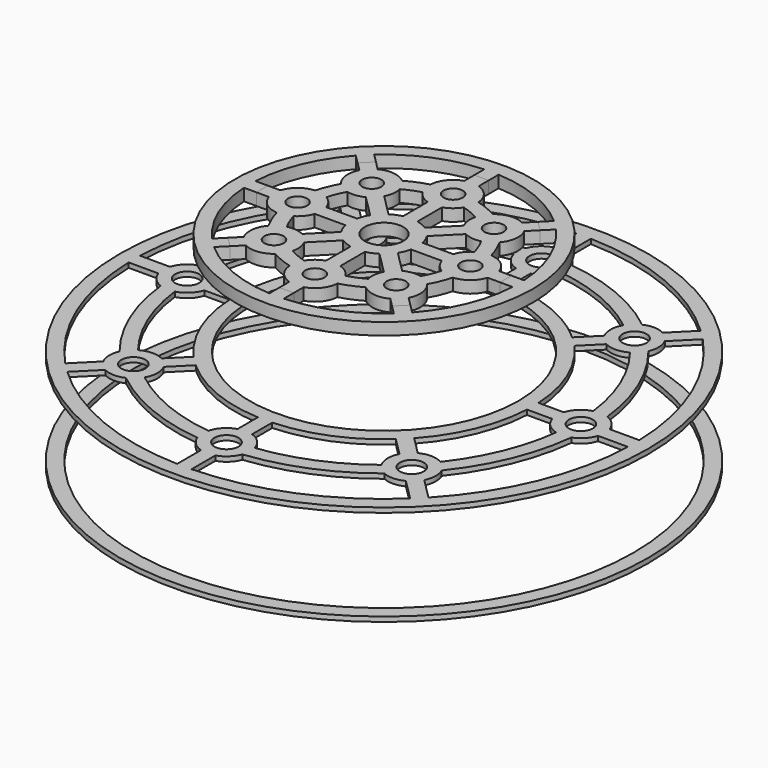
from build123d import *

# Parameters (mm, degrees)
F2_R     = 550
F2_R_2   = 25
F2_R_3   = 280
F3_DEPTH = 10
F4_R     = 20
F4_R_2   = 40
F5_DEPTH = 25
F6_R     = 550
F6_R_2   = 520
F7_DEPTH = 10
F4_R_3   = 310
F8_DEPTH = 25


with BuildPart() as f3:
    # F2 (on Top) → F3 (new body)
    with BuildSketch(Plane.XY):
        Circle(F2_R)
        with Locations((-289.91378, -289.91378)):
            Circle(F2_R_2, mode=Mode.SUBTRACT)
        with BuildLine():
            ThreePointArc((-46.860222, -427.439024), (-34.431925, -446.255242), (-15, -457.69696))
            Line((-15, -457.69696), (-15, -519.783609))
            ThreePointArc((-15, -519.783609), (-198.995385, -480.417357), (-356.935913, -378.149116))
            Line((-356.935913, -378.149116), (-313.034022, -334.247226))
            ThreePointArc((-313.034022, -334.247226), (-291.20306, -339.897155), (-269.109852, -335.380214))
            ThreePointArc((-269.109852, -335.380214), (-164.553876, -397.268199), (-46.860222, -427.439024))
        make_face(mode=Mode.SUBTRACT)
        with BuildLine():
            Line((-15, -309.636884), (-15, -362.30304))
            ThreePointArc((-15, -362.30304), (-36.11046, -375.416266), (-48.300073, -397.073171))
            ThreePointArc((-48.300073, -397.073171), (-153.073373, -369.551813), (-246.619822, -314.926441))
            ThreePointArc((-246.619822, -314.926441), (-239.925436, -290.993338), (-245.580335, -266.793538))
            Line((-245.580335, -266.793538), (-208.339739, -229.552942))
            ThreePointArc((-208.339739, -229.552942), (-118.631864, -286.402655), (-15, -309.636884))
        make_face(mode=Mode.SUBTRACT)
        with BuildLine():
            Line((-519.783609, -15), (-457.69696, -15))
            ThreePointArc((-457.69696, -15), (-446.255242, -34.431925), (-427.439024, -46.860222))
            ThreePointArc((-427.439024, -46.860222), (-397.268199, -164.553876), (-335.380214, -269.109852))
            ThreePointArc((-335.380214, -269.109852), (-339.897155, -291.20306), (-334.247226, -313.034022))
            Line((-334.247226, -313.034022), (-378.149116, -356.935913))
            ThreePointArc((-378.149116, -356.935913), (-480.417357, -198.995385), (-519.783609, -15))
        make_face(mode=Mode.SUBTRACT)
        with BuildLine():
            ThreePointArc((-397.073171, -48.300073), (-375.416266, -36.11046), (-362.30304, -15))
            Line((-362.30304, -15), (-309.636884, -15))
            ThreePointArc((-309.636884, -15), (-286.402655, -118.631864), (-229.552942, -208.339739))
            Line((-229.552942, -208.339739), (-266.793538, -245.580335))
            ThreePointArc((-266.793538, -245.580335), (-290.993338, -239.925436), (-314.926441, -246.619822))
            ThreePointArc((-314.926441, -246.619822), (-369.551813, -153.073373), (-397.073171, -48.300073))
        make_face(mode=Mode.SUBTRACT)
        with BuildLine():
            ThreePointArc((356.935913, -378.149116), (198.995385, -480.417357), (15, -519.783609))
            Line((15, -519.783609), (15, -457.69696))
            ThreePointArc((15, -457.69696), (34.431925, -446.255242), (46.860222, -427.439024))
            ThreePointArc((46.860222, -427.439024), (164.553876, -397.268199), (269.109852, -335.380214))
            ThreePointArc((269.109852, -335.380214), (291.20306, -339.897155), (313.034022, -334.247226))
            Line((313.034022, -334.247226), (356.935913, -378.149116))
        make_face(mode=Mode.SUBTRACT)
        with Locations((0, -410)):
            Circle(F2_R_2, mode=Mode.SUBTRACT)
        with BuildLine():
            ThreePointArc((246.619822, -314.926441), (153.073373, -369.551813), (48.300073, -397.073171))
            ThreePointArc((48.300073, -397.073171), (36.11046, -375.416266), (15, -362.30304))
            Line((15, -362.30304), (15, -309.636884))
            ThreePointArc((15, -309.636884), (118.631864, -286.402655), (208.339739, -229.552942))
            Line((208.339739, -229.552942), (245.580335, -266.793538))
            ThreePointArc((245.580335, -266.793538), (239.925436, -290.993338), (246.619822, -314.926441))
        make_face(mode=Mode.SUBTRACT)
        with Locations((289.91378, -289.91378)):
            Circle(F2_R_2, mode=Mode.SUBTRACT)
        with BuildLine():
            Line((378.149116, -356.935913), (334.247226, -313.034022))
            ThreePointArc((334.247226, -313.034022), (339.897155, -291.20306), (335.380214, -269.109852))
            ThreePointArc((335.380214, -269.109852), (397.268199, -164.553876), (427.439024, -46.860222))
            ThreePointArc((427.439024, -46.860222), (446.255242, -34.431925), (457.69696, -15))
            Line((457.69696, -15), (519.783609, -15))
            ThreePointArc((519.783609, -15), (480.417357, -198.995385), (378.149116, -356.935913))
        make_face(mode=Mode.SUBTRACT)
        with BuildLine():
            ThreePointArc((314.926441, -246.619822), (290.993338, -239.925436), (266.793538, -245.580335))
            Line((266.793538, -245.580335), (229.552942, -208.339739))
            ThreePointArc((229.552942, -208.339739), (286.402655, -118.631864), (309.636884, -15))
            Line((309.636884, -15), (362.30304, -15))
            ThreePointArc((362.30304, -15), (375.416266, -36.11046), (397.073171, -48.300073))
            ThreePointArc((397.073171, -48.300073), (369.551813, -153.073373), (314.926441, -246.619822))
        make_face(mode=Mode.SUBTRACT)
        with Locations((-410, 0)):
            Circle(F2_R_2, mode=Mode.SUBTRACT)
        with BuildLine():
            ThreePointArc((-314.926441, 246.619822), (-290.993338, 239.925436), (-266.793538, 245.580335))
            Line((-266.793538, 245.580335), (-229.552942, 208.339739))
            ThreePointArc((-229.552942, 208.339739), (-286.402655, 118.631864), (-309.636884, 15))
            Line((-309.636884, 15), (-362.30304, 15))
            ThreePointArc((-362.30304, 15), (-375.416266, 36.11046), (-397.073171, 48.300073))
            ThreePointArc((-397.073171, 48.300073), (-369.551813, 153.073373), (-314.926441, 246.619822))
        make_face(mode=Mode.SUBTRACT)
        with BuildLine():
            Line((-378.149116, 356.935913), (-334.247226, 313.034022))
            ThreePointArc((-334.247226, 313.034022), (-339.897155, 291.20306), (-335.380214, 269.109852))
            ThreePointArc((-335.380214, 269.109852), (-397.268199, 164.553876), (-427.439024, 46.860222))
            ThreePointArc((-427.439024, 46.860222), (-446.255242, 34.431925), (-457.69696, 15))
            Line((-457.69696, 15), (-519.783609, 15))
            ThreePointArc((-519.783609, 15), (-480.417357, 198.995385), (-378.149116, 356.935913))
        make_face(mode=Mode.SUBTRACT)
        with Locations((-289.91378, 289.91378)):
            Circle(F2_R_2, mode=Mode.SUBTRACT)
        with BuildLine():
            ThreePointArc((-48.300073, 397.073171), (-36.11046, 375.416266), (-15, 362.30304))
            Line((-15, 362.30304), (-15, 309.636884))
            ThreePointArc((-15, 309.636884), (-118.631864, 286.402655), (-208.339739, 229.552942))
            Line((-208.339739, 229.552942), (-245.580335, 266.793538))
            ThreePointArc((-245.580335, 266.793538), (-239.925436, 290.993338), (-246.619822, 314.926441))
            ThreePointArc((-246.619822, 314.926441), (-153.073373, 369.551813), (-48.300073, 397.073171))
        make_face(mode=Mode.SUBTRACT)
        with BuildLine():
            Line((-15, 519.783609), (-15, 457.69696))
            ThreePointArc((-15, 457.69696), (-34.431925, 446.255242), (-46.860222, 427.439024))
            ThreePointArc((-46.860222, 427.439024), (-164.553876, 397.268199), (-269.109852, 335.380214))
            ThreePointArc((-269.109852, 335.380214), (-291.20306, 339.897155), (-313.034022, 334.247226))
            Line((-313.034022, 334.247226), (-356.935913, 378.149116))
            ThreePointArc((-356.935913, 378.149116), (-198.995385, 480.417357), (-15, 519.783609))
        make_face(mode=Mode.SUBTRACT)
        Circle(F2_R_3, mode=Mode.SUBTRACT)
        with Locations((410, 0)):
            Circle(F2_R_2, mode=Mode.SUBTRACT)
        with BuildLine():
            ThreePointArc((397.073171, 48.300073), (375.416266, 36.11046), (362.30304, 15))
            Line((362.30304, 15), (309.636884, 15))
            ThreePointArc((309.636884, 15), (286.402655, 118.631864), (229.552942, 208.339739))
            Line((229.552942, 208.339739), (266.793538, 245.580335))
            ThreePointArc((266.793538, 245.580335), (290.993338, 239.925436), (314.926441, 246.619822))
            ThreePointArc((314.926441, 246.619822), (369.551813, 153.073373), (397.073171, 48.300073))
        make_face(mode=Mode.SUBTRACT)
        with BuildLine():
            Line((519.783609, 15), (457.69696, 15))
            ThreePointArc((457.69696, 15), (446.255242, 34.431925), (427.439024, 46.860222))
            ThreePointArc((427.439024, 46.860222), (397.268199, 164.553876), (335.380214, 269.109852))
            ThreePointArc((335.380214, 269.109852), (339.897155, 291.20306), (334.247226, 313.034022))
            Line((334.247226, 313.034022), (378.149116, 356.935913))
            ThreePointArc((378.149116, 356.935913), (480.417357, 198.995385), (519.783609, 15))
        make_face(mode=Mode.SUBTRACT)
        with BuildLine():
            ThreePointArc((246.619822, 314.926441), (239.925436, 290.993338), (245.580335, 266.793538))
            Line((245.580335, 266.793538), (208.339739, 229.552942))
            ThreePointArc((208.339739, 229.552942), (118.631864, 286.402655), (15, 309.636884))
            Line((15, 309.636884), (15, 362.30304))
            ThreePointArc((15, 362.30304), (36.11046, 375.416266), (48.300073, 397.073171))
            ThreePointArc((48.300073, 397.073171), (153.073373, 369.551813), (246.619822, 314.926441))
        make_face(mode=Mode.SUBTRACT)
        with Locations((0, 410)):
            Circle(F2_R_2, mode=Mode.SUBTRACT)
        with BuildLine():
            Line((356.935913, 378.149116), (313.034022, 334.247226))
            ThreePointArc((313.034022, 334.247226), (291.20306, 339.897155), (269.109852, 335.380214))
            ThreePointArc((269.109852, 335.380214), (164.553876, 397.268199), (46.860222, 427.439024))
            ThreePointArc((46.860222, 427.439024), (34.431925, 446.255242), (15, 457.69696))
            Line((15, 457.69696), (15, 519.783609))
            ThreePointArc((15, 519.783609), (198.995385, 480.417357), (356.935913, 378.149116))
        make_face(mode=Mode.SUBTRACT)
        with Locations((289.91378, 289.91378)):
            Circle(F2_R_2, mode=Mode.SUBTRACT)
    extrude(amount=F3_DEPTH)


with BuildPart() as f5:
    # F4 (on offset) → F5 (new body)
    with BuildSketch(Plane.XY.offset(200)):
        with BuildLine():
            ThreePointArc((15, -227.69696), (39.3023, -210.9084), (49.888765, -183.333333))
            ThreePointArc((49.888765, -183.333333), (72.709852, -175.537111), (94.359559, -164.912927))
            ThreePointArc((94.359559, -164.912927), (121.343837, -176.925683), (150.399463, -171.612666))
            Line((150.399463, -171.612666), (168.749225, -189.962429))
            Line((168.749225, -189.962429), (189.962429, -168.749225))
            Line((189.962429, -168.749225), (171.612666, -150.399463))
            ThreePointArc((171.612666, -150.399463), (176.925683, -121.343837), (164.912927, -94.359559))
            ThreePointArc((164.912927, -94.359559), (175.537111, -72.709852), (183.333333, -49.888765))
            ThreePointArc((183.333333, -49.888765), (210.9084, -39.3023), (227.69696, -15))
            Line((227.69696, -15), (253.647443, -15))
            Line((253.647443, -15), (253.647443, 15))
            Line((253.647443, 15), (227.69696, 15))
            ThreePointArc((227.69696, 15), (210.9084, 39.3023), (183.333333, 49.888765))
            ThreePointArc((183.333333, 49.888765), (175.537111, 72.709852), (164.912927, 94.359559))
            ThreePointArc((164.912927, 94.359559), (176.925683, 121.343837), (171.612666, 150.399463))
            Line((171.612666, 150.399463), (189.962429, 168.749225))
            Line((189.962429, 168.749225), (168.749225, 189.962429))
            Line((168.749225, 189.962429), (150.399463, 171.612666))
            ThreePointArc((150.399463, 171.612666), (121.343837, 176.925683), (94.359559, 164.912927))
            ThreePointArc((94.359559, 164.912927), (72.709852, 175.537111), (49.888765, 183.333333))
            ThreePointArc((49.888765, 183.333333), (39.3023, 210.9084), (15, 227.69696))
            Line((15, 227.69696), (15, 253.647443))
            Line((15, 253.647443), (-15, 253.647443))
            Line((-15, 253.647443), (-15, 227.69696))
            ThreePointArc((-15, 227.69696), (-39.3023, 210.9084), (-49.888765, 183.333333))
            ThreePointArc((-49.888765, 183.333333), (-72.709852, 175.537111), (-94.359559, 164.912927))
            ThreePointArc((-94.359559, 164.912927), (-121.343837, 176.925683), (-150.399463, 171.612666))
            Line((-150.399463, 171.612666), (-168.749225, 189.962429))
            Line((-168.749225, 189.962429), (-189.962429, 168.749225))
            Line((-189.962429, 168.749225), (-171.612666, 150.399463))
            ThreePointArc((-171.612666, 150.399463), (-176.925683, 121.343837), (-164.912927, 94.359559))
            ThreePointArc((-164.912927, 94.359559), (-175.537111, 72.709852), (-183.333333, 49.888765))
            ThreePointArc((-183.333333, 49.888765), (-210.9084, 39.3023), (-227.69696, 15))
            Line((-227.69696, 15), (-253.647443, 15))
            Line((-253.647443, 15), (-253.647443, -15))
            Line((-253.647443, -15), (-227.69696, -15))
            ThreePointArc((-227.69696, -15), (-210.9084, -39.3023), (-183.333333, -49.888765))
            ThreePointArc((-183.333333, -49.888765), (-175.537111, -72.709852), (-164.912927, -94.359559))
            ThreePointArc((-164.912927, -94.359559), (-176.925683, -121.343837), (-171.612666, -150.399463))
            Line((-171.612666, -150.399463), (-189.962429, -168.749225))
            Line((-189.962429, -168.749225), (-168.749225, -189.962429))
            Line((-168.749225, -189.962429), (-150.399463, -171.612666))
            ThreePointArc((-150.399463, -171.612666), (-121.343837, -176.925683), (-94.359559, -164.912927))
            ThreePointArc((-94.359559, -164.912927), (-72.709852, -175.537111), (-49.888765, -183.333333))
            ThreePointArc((-49.888765, -183.333333), (-39.3023, -210.9084), (-15, -227.69696))
            Line((-15, -227.69696), (-15, -253.647443))
            Line((-15, -253.647443), (15, -253.647443))
            Line((15, -253.647443), (15, -227.69696))
        make_face()
        with Locations((-127.279221, -127.279221)):
            Circle(F4_R, mode=Mode.SUBTRACT)
        with BuildLine():
            Line((-15, -68.373972), (-15, -132.30304))
            ThreePointArc((-15, -132.30304), (-30.90282, -140.693312), (-42.809332, -154.166667))
            ThreePointArc((-42.809332, -154.166667), (-61.229349, -147.820725), (-78.741527, -139.283064))
            ThreePointArc((-78.741527, -139.283064), (-77.633602, -121.336788), (-82.945775, -104.158978))
            Line((-82.945775, -104.158978), (-37.741097, -58.954301))
            ThreePointArc((-37.741097, -58.954301), (-26.78784, -64.671567), (-15, -68.373972))
        make_face(mode=Mode.SUBTRACT)
        with BuildLine():
            Line((-132.30304, -15), (-68.373972, -15))
            ThreePointArc((-68.373972, -15), (-64.671567, -26.78784), (-58.954301, -37.741097))
            Line((-58.954301, -37.741097), (-104.158978, -82.945775))
            ThreePointArc((-104.158978, -82.945775), (-121.336788, -77.633602), (-139.283064, -78.741527))
            ThreePointArc((-139.283064, -78.741527), (-147.820725, -61.229349), (-154.166667, -42.809332))
            ThreePointArc((-154.166667, -42.809332), (-140.693312, -30.90282), (-132.30304, -15))
        make_face(mode=Mode.SUBTRACT)
        with Locations((0, -180)):
            Circle(F4_R, mode=Mode.SUBTRACT)
        with BuildLine():
            ThreePointArc((78.741527, -139.283064), (61.229349, -147.820725), (42.809332, -154.166667))
            ThreePointArc((42.809332, -154.166667), (30.90282, -140.693312), (15, -132.30304))
            Line((15, -132.30304), (15, -68.373972))
            ThreePointArc((15, -68.373972), (26.78784, -64.671567), (37.741097, -58.954301))
            Line((37.741097, -58.954301), (82.945775, -104.158978))
            ThreePointArc((82.945775, -104.158978), (77.633602, -121.336788), (78.741527, -139.283064))
        make_face(mode=Mode.SUBTRACT)
        with Locations((127.279221, -127.279221)):
            Circle(F4_R, mode=Mode.SUBTRACT)
        with BuildLine():
            Line((104.158978, -82.945775), (58.954301, -37.741097))
            ThreePointArc((58.954301, -37.741097), (64.671567, -26.78784), (68.373972, -15))
            Line((68.373972, -15), (132.30304, -15))
            ThreePointArc((132.30304, -15), (140.693312, -30.90282), (154.166667, -42.809332))
            ThreePointArc((154.166667, -42.809332), (147.820725, -61.229349), (139.283064, -78.741527))
            ThreePointArc((139.283064, -78.741527), (121.336788, -77.633602), (104.158978, -82.945775))
        make_face(mode=Mode.SUBTRACT)
        with Locations((-180, 0)):
            Circle(F4_R, mode=Mode.SUBTRACT)
        with BuildLine():
            Line((-104.158978, 82.945775), (-58.954301, 37.741097))
            ThreePointArc((-58.954301, 37.741097), (-64.671567, 26.78784), (-68.373972, 15))
            Line((-68.373972, 15), (-132.30304, 15))
            ThreePointArc((-132.30304, 15), (-140.693312, 30.90282), (-154.166667, 42.809332))
            ThreePointArc((-154.166667, 42.809332), (-147.820725, 61.229349), (-139.283064, 78.741527))
            ThreePointArc((-139.283064, 78.741527), (-121.336788, 77.633602), (-104.158978, 82.945775))
        make_face(mode=Mode.SUBTRACT)
        with Locations((-127.279221, 127.279221)):
            Circle(F4_R, mode=Mode.SUBTRACT)
        with BuildLine():
            Line((-15, 132.30304), (-15, 68.373972))
            ThreePointArc((-15, 68.373972), (-26.78784, 64.671567), (-37.741097, 58.954301))
            Line((-37.741097, 58.954301), (-82.945775, 104.158978))
            ThreePointArc((-82.945775, 104.158978), (-77.633602, 121.336788), (-78.741527, 139.283064))
            ThreePointArc((-78.741527, 139.283064), (-61.229349, 147.820725), (-42.809332, 154.166667))
            ThreePointArc((-42.809332, 154.166667), (-30.90282, 140.693312), (-15, 132.30304))
        make_face(mode=Mode.SUBTRACT)
        Circle(F4_R_2, mode=Mode.SUBTRACT)
        with BuildLine():
            Line((132.30304, 15), (68.373972, 15))
            ThreePointArc((68.373972, 15), (64.671567, 26.78784), (58.954301, 37.741097))
            Line((58.954301, 37.741097), (104.158978, 82.945775))
            ThreePointArc((104.158978, 82.945775), (121.336788, 77.633602), (139.283064, 78.741527))
            ThreePointArc((139.283064, 78.741527), (147.820725, 61.229349), (154.166667, 42.809332))
            ThreePointArc((154.166667, 42.809332), (140.693312, 30.90282), (132.30304, 15))
        make_face(mode=Mode.SUBTRACT)
        with BuildLine():
            Line((82.945775, 104.158978), (37.741097, 58.954301))
            ThreePointArc((37.741097, 58.954301), (26.78784, 64.671567), (15, 68.373972))
            Line((15, 68.373972), (15, 132.30304))
            ThreePointArc((15, 132.30304), (30.90282, 140.693312), (42.809332, 154.166667))
            ThreePointArc((42.809332, 154.166667), (61.229349, 147.820725), (78.741527, 139.283064))
            ThreePointArc((78.741527, 139.283064), (77.633602, 121.336788), (82.945775, 104.158978))
        make_face(mode=Mode.SUBTRACT)
        with Locations((127.279221, 127.279221)):
            Circle(F4_R, mode=Mode.SUBTRACT)
        with Locations((180, 0)):
            Circle(F4_R, mode=Mode.SUBTRACT)
        with Locations((0, 180)):
            Circle(F4_R, mode=Mode.SUBTRACT)
    extrude(amount=F5_DEPTH)


with BuildPart() as f7:
    # F6 (on offset) → F7 (new body)
    with BuildSketch(Plane.XY.offset(-200)):
        Circle(F6_R)
        Circle(F6_R_2, mode=Mode.SUBTRACT)
    extrude(amount=F7_DEPTH)


with BuildPart() as f8:
    # F4 (on offset) → F8 (new body)
    with BuildSketch(Plane.XY.offset(200)):
        Circle(F4_R_3)
        with BuildLine():
            Line((15, -279.597926), (15, -253.647443))
            Line((15, -253.647443), (-15, -253.647443))
            Line((-15, -253.647443), (-15, -279.597926))
            ThreePointArc((-15, -279.597926), (-107.151361, -258.686269), (-187.098987, -208.312191))
            Line((-187.098987, -208.312191), (-168.749225, -189.962429))
            Line((-168.749225, -189.962429), (-189.962429, -168.749225))
            Line((-189.962429, -168.749225), (-208.312191, -187.098987))
            ThreePointArc((-208.312191, -187.098987), (-258.686269, -107.151361), (-279.597926, -15))
            Line((-279.597926, -15), (-253.647443, -15))
            Line((-253.647443, -15), (-253.647443, 15))
            Line((-253.647443, 15), (-279.597926, 15))
            ThreePointArc((-279.597926, 15), (-258.686269, 107.151361), (-208.312191, 187.098987))
            Line((-208.312191, 187.098987), (-189.962429, 168.749225))
            Line((-189.962429, 168.749225), (-168.749225, 189.962429))
            Line((-168.749225, 189.962429), (-187.098987, 208.312191))
            ThreePointArc((-187.098987, 208.312191), (-107.151361, 258.686269), (-15, 279.597926))
            Line((-15, 279.597926), (-15, 253.647443))
            Line((-15, 253.647443), (15, 253.647443))
            Line((15, 253.647443), (15, 279.597926))
            ThreePointArc((15, 279.597926), (107.151361, 258.686269), (187.098987, 208.312191))
            Line((187.098987, 208.312191), (168.749225, 189.962429))
            Line((168.749225, 189.962429), (189.962429, 168.749225))
            Line((189.962429, 168.749225), (208.312191, 187.098987))
            ThreePointArc((208.312191, 187.098987), (258.686269, 107.151361), (279.597926, 15))
            Line((279.597926, 15), (253.647443, 15))
            Line((253.647443, 15), (253.647443, -15))
            Line((253.647443, -15), (279.597926, -15))
            ThreePointArc((279.597926, -15), (258.686269, -107.151361), (208.312191, -187.098987))
            Line((208.312191, -187.098987), (189.962429, -168.749225))
            Line((189.962429, -168.749225), (168.749225, -189.962429))
            Line((168.749225, -189.962429), (187.098987, -208.312191))
            ThreePointArc((187.098987, -208.312191), (107.151361, -258.686269), (15, -279.597926))
        make_face(mode=Mode.SUBTRACT)
    extrude(amount=F8_DEPTH)


solid = Compound([f3.part, f5.part, f7.part, f8.part])
